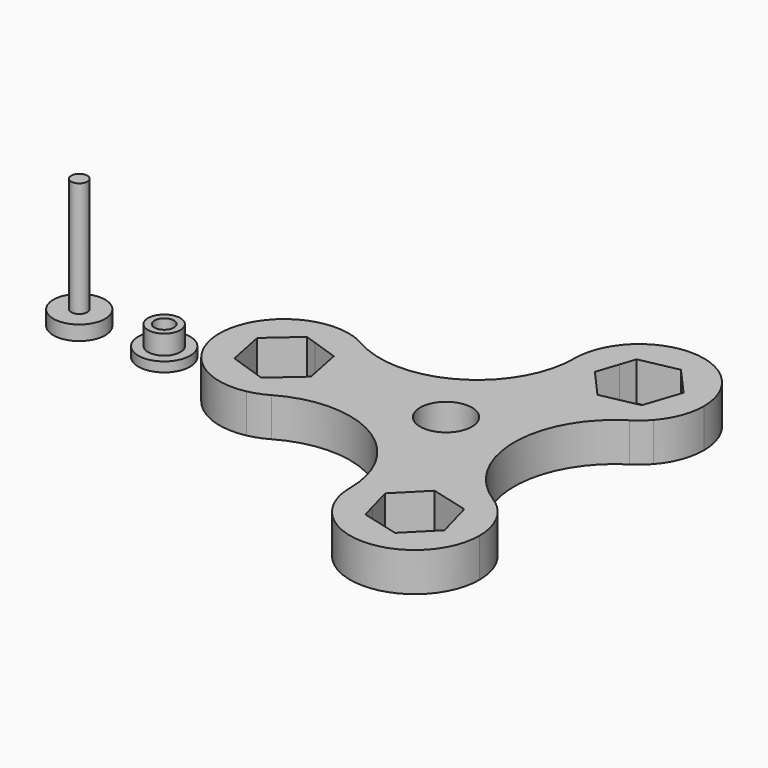
from build123d import *

# Parameters (mm, degrees)
F0_R     = 4
F1_DEPTH = 6
F2_R     = 4
F2_R_2   = 1.25
F3_DEPTH = 2.25
F4_DEPTH = 20
F2_R_3   = 2.5
F5_DEPTH = 1.5
F2_R_4   = 1.5
F6_DEPTH = 4.5
F7_DEPTH = 1.5


with BuildPart() as f1:
    # F0 (on Top) → F1 (new body)
    with BuildSketch(Plane.XY):
        with BuildLine():
            ThreePointArc((17.8087764651, -13.1885621655), (10.5136609995, 1.55e-08), (17.8087764913, 13.1885621819))
            ThreePointArc((17.8087764913, 13.1885621819), (7.6648242348, 12.9093044674), (2.5105162388, 21.6506351062))
            ThreePointArc((2.5105162388, 21.6506351062), (-4.9947417775, 8.6511467674), (-20.0052579234, 8.6511465947))
            ThreePointArc((-20.0052579234, 8.6511465947), (-16.3488532355, 4.9947417826), (-15.0105162388, 0))
            ThreePointArc((-15.0105162388, 0), (-16.348853269, -4.9947418405), (-20.0052580393, -8.6511466616))
            ThreePointArc((-20.0052580393, -8.6511466616), (-4.9947418405, -8.651146731), (2.5105162388, -21.6506350946))
            ThreePointArc((2.5105162388, -21.6506350946), (7.6648242263, -12.9093044721), (17.8087764651, -13.1885621655))
        make_face()
        Circle(F0_R, mode=Mode.SUBTRACT)
        with BuildLine():
            ThreePointArc((-15.0105162388, 0), (-16.3488532355, 4.9947417826), (-20.0052579234, 8.6511465947))
            ThreePointArc((-20.0052579234, 8.6511465947), (-21.4588051121, 9.3407561033), (-23.0042042837, 9.7880838407))
            ThreePointArc((-23.0042042837, 9.7880838407), (-23.7195905897, 7.8981657526), (-24.28, 5.9566433501))
            ThreePointArc((-24.28, 5.9566433501), (-22.2041780271, 5.3088020773), (-20.4955977684, 3.9636297173))
            ThreePointArc((-20.4955977684, 3.9636297173), (-19.3863374973, 2.1182052085), (-19, 0))
            ThreePointArc((-19, 0), (-19.0793230601, -0.9724117304), (-19.3151948578, -1.9191119027))
            ThreePointArc((-19.3151948578, -1.9191119027), (-21.0363702827, -4.5044022316), (-23.8195970894, -5.8827416201))
            ThreePointArc((-23.8195970894, -5.8827416201), (-24.0490803546, -5.9241667623), (-24.28, -5.9566433501))
            ThreePointArc((-24.28, -5.9566433501), (-23.7195905897, -7.8981657526), (-23.0042042837, -9.7880838407))
            ThreePointArc((-23.0042042837, -9.7880838407), (-21.4588051747, -9.340756127), (-20.0052580393, -8.6511466616))
            ThreePointArc((-20.0052580393, -8.6511466616), (-16.348853269, -4.9947418405), (-15.0105162388, 0))
        make_face()
        with BuildLine():
            ThreePointArc((-24.28, 5.9566433501), (-23.7195905897, 7.8981657526), (-23.0042042837, 9.7880838407))
            ThreePointArc((-23.0042042837, 9.7880838407), (-34.9894837612, 0), (-23.0042042837, -9.7880838407))
            ThreePointArc((-23.0042042837, -9.7880838407), (-23.7195905897, -7.8981657526), (-24.28, -5.9566433501))
            ThreePointArc((-24.28, -5.9566433501), (-27.1385628113, -5.6059387352), (-29.5044022316, -3.9636297173))
            ThreePointArc((-29.5044022316, -3.9636297173), (-30.8827416201, -1.1804029106), (-30.6848051422, 1.9191119027))
            ThreePointArc((-30.6848051422, 1.9191119027), (-28.9636297173, 4.5044022316), (-26.1804029106, 5.8827416201))
            ThreePointArc((-26.1804029106, 5.8827416201), (-25.2331481856, 5.995468449), (-24.28, 5.9566433501))
        make_face()
        with BuildLine():
            Line((-30.6848051422, 1.9191119027), (-26.1804029106, 5.8827416201))
            ThreePointArc((-26.1804029106, 5.8827416201), (-28.9636297173, 4.5044022316), (-30.6848051422, 1.9191119027))
        make_face()
        with BuildLine():
            ThreePointArc((-30.6848051422, 1.9191119027), (-30.8827416201, -1.1804029106), (-29.5044022316, -3.9636297173))
            Line((-29.5044022316, -3.9636297173), (-30.6848051422, 1.9191119027))
        make_face()
        with BuildLine():
            ThreePointArc((-29.5044022316, -3.9636297173), (-27.1385628113, -5.6059387352), (-24.28, -5.9566433501))
            ThreePointArc((-24.28, -5.9566433501), (-24.3102516626, -5.8319519976), (-24.3398629699, -5.7071070259))
            Line((-24.3398629699, -5.7071070259), (-29.5044022316, -3.9636297173))
        make_face()
        with BuildLine():
            Line((-19.3151948578, -1.9191119027), (-23.8195970894, -5.8827416201))
            ThreePointArc((-23.8195970894, -5.8827416201), (-21.0363702827, -4.5044022316), (-19.3151948578, -1.9191119027))
        make_face()
        with BuildLine():
            ThreePointArc((-19, 0), (-19.3863374973, 2.1182052085), (-20.4955977684, 3.9636297173))
            Line((-20.4955977684, 3.9636297173), (-19.3151948578, -1.9191119027))
            ThreePointArc((-19.3151948578, -1.9191119027), (-19.0793230601, -0.9724117304), (-19, 0))
        make_face()
        with BuildLine():
            ThreePointArc((-20.4955977684, 3.9636297173), (-22.2041780271, 5.3088020773), (-24.28, 5.9566433501))
            ThreePointArc((-24.28, 5.9566433501), (-24.3588972483, 5.6253110889), (-24.4332732575, 5.2929347175))
            Line((-24.4332732575, 5.2929347175), (-20.4955977684, 3.9636297173))
        make_face()
        with BuildLine():
            ThreePointArc((22.4894837612, -21.6506350946), (21.8407561434, -18.1094403126), (19.9788314023, -15.0281833832))
            ThreePointArc((19.9788314023, -15.0281833832), (18.6998074799, -16.5926851418), (17.2986044624, -18.0487751288))
            ThreePointArc((17.2986044624, -18.0487751288), (18.19173202, -19.7521655498), (18.5, -21.6506350946))
            ThreePointArc((18.5, -21.6506350946), (18.4502853687, -22.4214165364), (18.301965323, -23.1794249399))
            ThreePointArc((18.301965323, -23.1794249399), (16.7602544389, -25.8755885992), (14.0770118184, -27.4396793788))
            ThreePointArc((14.0770118184, -27.4396793788), (10.9712101547, -27.4526004176), (8.2750464955, -25.9108895335))
            ThreePointArc((8.2750464955, -25.9108895335), (7.5359355918, -25.0208078722), (6.9813955376, -24.0054184789))
            ThreePointArc((6.9813955376, -24.0054184789), (5.0197831098, -24.4908508944), (3.0253728814, -24.8162672239))
            ThreePointArc((3.0253728814, -24.8162672239), (14.1036134307, -31.5105645964), (22.4894837612, -21.6506350946))
        make_face()
        with BuildLine():
            ThreePointArc((17.2986044624, -18.0487751288), (18.6998074799, -16.5926851418), (19.9788314023, -15.0281833832))
            ThreePointArc((19.9788314023, -15.0281833832), (18.9596269474, -14.0307265968), (17.8087764651, -13.1885621655))
            ThreePointArc((17.8087764651, -13.1885621655), (7.6648242263, -12.9093044721), (2.5105162388, -21.6506350946))
            ThreePointArc((2.5105162388, -21.6506350946), (2.6400704983, -23.2542485253), (3.0253728814, -24.8162672239))
            ThreePointArc((3.0253728814, -24.8162672239), (5.0197831098, -24.4908508944), (6.9813955376, -24.0054184789))
            ThreePointArc((6.9813955376, -24.0054184789), (6.5159077276, -22.0872581311), (6.698034677, -20.1218452493))
            ThreePointArc((6.698034677, -20.1218452493), (8.2397455611, -17.4256815901), (10.9229881816, -15.8615908104))
            ThreePointArc((10.9229881816, -15.8615908104), (14.0287898453, -15.8486697716), (16.7249535045, -17.3903806557))
            ThreePointArc((16.7249535045, -17.3903806557), (17.0237728078, -17.7091278216), (17.2986044624, -18.0487751288))
        make_face()
        with BuildLine():
            ThreePointArc((14.0770118184, -27.4396793788), (16.7602544389, -25.8755885992), (18.301965323, -23.1794249399))
            Line((18.301965323, -23.1794249399), (14.0770118184, -27.4396793788))
        make_face()
        with BuildLine():
            Line((14.0770118184, -27.4396793788), (8.2750464955, -25.9108895335))
            ThreePointArc((8.2750464955, -25.9108895335), (10.9712101547, -27.4526004176), (14.0770118184, -27.4396793788))
        make_face()
        with BuildLine():
            ThreePointArc((6.9813955376, -24.0054184789), (7.3396039705, -23.8983307693), (7.6961709032, -23.7858982052))
            Line((7.6961709032, -23.7858982052), (6.698034677, -20.1218452493))
            ThreePointArc((6.698034677, -20.1218452493), (6.5159077276, -22.0872581311), (6.9813955376, -24.0054184789))
        make_face()
        with BuildLine():
            Line((8.2750464955, -25.9108895335), (7.6961709032, -23.7858982052))
            ThreePointArc((7.6961709032, -23.7858982052), (7.3396039705, -23.8983307693), (6.9813955376, -24.0054184789))
            ThreePointArc((6.9813955376, -24.0054184789), (7.5359355918, -25.0208078722), (8.2750464955, -25.9108895335))
        make_face()
        with BuildLine():
            Line((6.698034677, -20.1218452493), (10.9229881816, -15.8615908104))
            ThreePointArc((10.9229881816, -15.8615908104), (8.2397455611, -17.4256815901), (6.698034677, -20.1218452493))
        make_face()
        with BuildLine():
            Line((10.9229881816, -15.8615908104), (16.7249535045, -17.3903806557))
            ThreePointArc((16.7249535045, -17.3903806557), (14.0287898453, -15.8486697716), (10.9229881816, -15.8615908104))
        make_face()
        with BuildLine():
            ThreePointArc((18.5, -21.6506350946), (18.19173202, -19.7521655498), (17.2986044624, -18.0487751288))
            ThreePointArc((17.2986044624, -18.0487751288), (17.1423543672, -18.1972439328), (16.984830058, -18.3443601115))
            Line((16.984830058, -18.3443601115), (18.301965323, -23.1794249399))
            ThreePointArc((18.301965323, -23.1794249399), (18.4502853687, -22.4214165364), (18.5, -21.6506350946))
        make_face()
        with BuildLine():
            ThreePointArc((16.984830058, -18.3443601115), (17.1423543672, -18.1972439328), (17.2986044624, -18.0487751288))
            ThreePointArc((17.2986044624, -18.0487751288), (17.0237728078, -17.7091278216), (16.7249535045, -17.3903806557))
            Line((16.7249535045, -17.3903806557), (16.984830058, -18.3443601115))
        make_face()
        with BuildLine():
            ThreePointArc((17.2986044624, 18.0487751288), (18.6998074799, 16.5926851418), (19.9788314023, 15.0281833832))
            ThreePointArc((19.9788314023, 15.0281833832), (21.8407561434, 18.1094403126), (22.4894837612, 21.6506350946))
            ThreePointArc((22.4894837612, 21.6506350946), (14.1036134307, 31.5105645964), (3.0253728814, 24.8162672239))
            ThreePointArc((3.0253728814, 24.8162672239), (5.0197831098, 24.4908508944), (6.9813955376, 24.0054184789))
            ThreePointArc((6.9813955376, 24.0054184789), (7.6303262217, 25.1558137338), (8.5152359236, 26.1363518997))
            ThreePointArc((8.5152359236, 26.1363518997), (11.2919514843, 27.5277618402), (14.3923626692, 27.3444004154))
            ThreePointArc((14.3923626692, 27.3444004154), (16.9857168051, 25.635399171), (18.3771267456, 22.8586836103))
            ThreePointArc((18.3771267456, 22.8586836103), (18.4692026467, 22.2577757399), (18.5, 21.6506350946))
            ThreePointArc((18.5, 21.6506350946), (18.19173202, 19.7521655498), (17.2986044624, 18.0487751288))
        make_face()
        with BuildLine():
            ThreePointArc((17.8087764913, 13.1885621819), (18.9596269591, 14.0307266068), (19.9788314023, 15.0281833832))
            ThreePointArc((19.9788314023, 15.0281833832), (18.6998074799, 16.5926851418), (17.2986044624, 18.0487751288))
            ThreePointArc((17.2986044624, 18.0487751288), (16.9138635514, 17.5864244025), (16.4847640764, 17.1649182895))
            ThreePointArc((16.4847640764, 17.1649182895), (13.7080485157, 15.773508349), (10.6076373308, 15.9568697738))
            ThreePointArc((10.6076373308, 15.9568697738), (8.0142831949, 17.6658710182), (6.6228732544, 20.4425865789))
            ThreePointArc((6.6228732544, 20.4425865789), (6.5301494802, 22.2513719518), (6.9813955376, 24.0054184789))
            ThreePointArc((6.9813955376, 24.0054184789), (5.0197831098, 24.4908508944), (3.0253728814, 24.8162672239))
            ThreePointArc((3.0253728814, 24.8162672239), (2.6400704992, 23.254248531), (2.5105162388, 21.6506351062))
            ThreePointArc((2.5105162388, 21.6506351062), (7.6648242348, 12.9093044674), (17.8087764913, 13.1885621819))
        make_face()
        with BuildLine():
            ThreePointArc((6.6228732544, 20.4425865789), (8.0142831949, 17.6658710182), (10.6076373308, 15.9568697738))
            Line((10.6076373308, 15.9568697738), (6.6228732544, 20.4425865789))
        make_face()
        with BuildLine():
            Line((6.6228732544, 20.4425865789), (7.7303605299, 23.7748086444))
            ThreePointArc((7.7303605299, 23.7748086444), (7.3567816925, 23.8930484269), (6.9813955376, 24.0054184789))
            ThreePointArc((6.9813955376, 24.0054184789), (6.5301494802, 22.2513719518), (6.6228732544, 20.4425865789))
        make_face()
        with BuildLine():
            ThreePointArc((6.9813955376, 24.0054184789), (7.3567816925, 23.8930484269), (7.7303605299, 23.7748086444))
            Line((7.7303605299, 23.7748086444), (8.5152359236, 26.1363518997))
            ThreePointArc((8.5152359236, 26.1363518997), (7.6303262217, 25.1558137338), (6.9813955376, 24.0054184789))
        make_face()
        with BuildLine():
            ThreePointArc((14.3923626692, 27.3444004154), (11.2919514843, 27.5277618402), (8.5152359236, 26.1363518997))
            Line((8.5152359236, 26.1363518997), (14.3923626692, 27.3444004154))
        make_face()
        with BuildLine():
            Line((14.3923626692, 27.3444004154), (18.3771267456, 22.8586836103))
            ThreePointArc((18.3771267456, 22.8586836103), (16.9857168051, 25.635399171), (14.3923626692, 27.3444004154))
        make_face()
        with BuildLine():
            ThreePointArc((16.9021025092, 18.4206115742), (17.1013641247, 18.2357710304), (17.2986044624, 18.0487751288))
            ThreePointArc((17.2986044624, 18.0487751288), (18.19173202, 19.7521655498), (18.5, 21.6506350946))
            ThreePointArc((18.5, 21.6506350946), (18.4692026467, 22.2577757399), (18.3771267456, 22.8586836103))
            Line((18.3771267456, 22.8586836103), (16.9021025092, 18.4206115742))
        make_face()
        with BuildLine():
            ThreePointArc((16.4847640764, 17.1649182895), (16.9138635514, 17.5864244025), (17.2986044624, 18.0487751288))
            ThreePointArc((17.2986044624, 18.0487751288), (17.1013641247, 18.2357710304), (16.9021025092, 18.4206115742))
            Line((16.9021025092, 18.4206115742), (16.4847640764, 17.1649182895))
        make_face()
        with BuildLine():
            ThreePointArc((10.6076373308, 15.9568697738), (13.7080485157, 15.773508349), (16.4847640764, 17.1649182895))
            Line((16.4847640764, 17.1649182895), (10.6076373308, 15.9568697738))
        make_face()
        with BuildLine():
            ThreePointArc((-24.4332732575, 5.2929347175), (-24.3588972483, 5.6253110889), (-24.28, 5.9566433501))
            ThreePointArc((-24.28, 5.9566433501), (-25.2331481856, 5.995468449), (-26.1804029106, 5.8827416201))
            Line((-26.1804029106, 5.8827416201), (-24.4332732575, 5.2929347175))
        make_face()
        with BuildLine():
            ThreePointArc((-24.3398629699, -5.7071070259), (-24.3102516626, -5.8319519976), (-24.28, -5.9566433501))
            ThreePointArc((-24.28, -5.9566433501), (-24.0490803546, -5.9241667623), (-23.8195970894, -5.8827416201))
            Line((-23.8195970894, -5.8827416201), (-24.3398629699, -5.7071070259))
        make_face()
    extrude(amount=F1_DEPTH)


with BuildPart() as f3:
    # F2 (on Top) → F3 (new body)
    with BuildSketch(Plane.XY):
        with Locations((-56.6225573421, 0)):
            Circle(F2_R)
        with Locations((-56.6225573421, 0)):
            Circle(F2_R_2, mode=Mode.SUBTRACT)
    extrude(amount=F3_DEPTH)

    # F2 (on Top) → F4 (join)
    with BuildSketch(Plane.XY):
        with Locations((-56.6225573421, 0)):
            Circle(F2_R_2)
    extrude(amount=F4_DEPTH)


with BuildPart() as f5:
    # F2 (on Top) → F5 (new body)
    with BuildSketch(Plane.XY):
        with Locations((-43.507963419, 0)):
            Circle(F2_R)
        with Locations((-43.507963419, 0)):
            Circle(F2_R_3, mode=Mode.SUBTRACT)
    extrude(amount=F5_DEPTH)

    # F2 (on Top) → F6 (join)
    with BuildSketch(Plane.XY):
        with Locations((-43.507963419, 0)):
            Circle(F2_R_3)
        with Locations((-43.507963419, 0)):
            Circle(F2_R_4, mode=Mode.SUBTRACT)
    extrude(amount=F6_DEPTH)

    # F2 (on Top) → F7 (join)
    with BuildSketch(Plane.XY):
        with Locations((-43.507963419, 0)):
            Circle(F2_R_4)
    extrude(amount=F7_DEPTH)


solid = Compound([f1.part, f3.part, f5.part])
